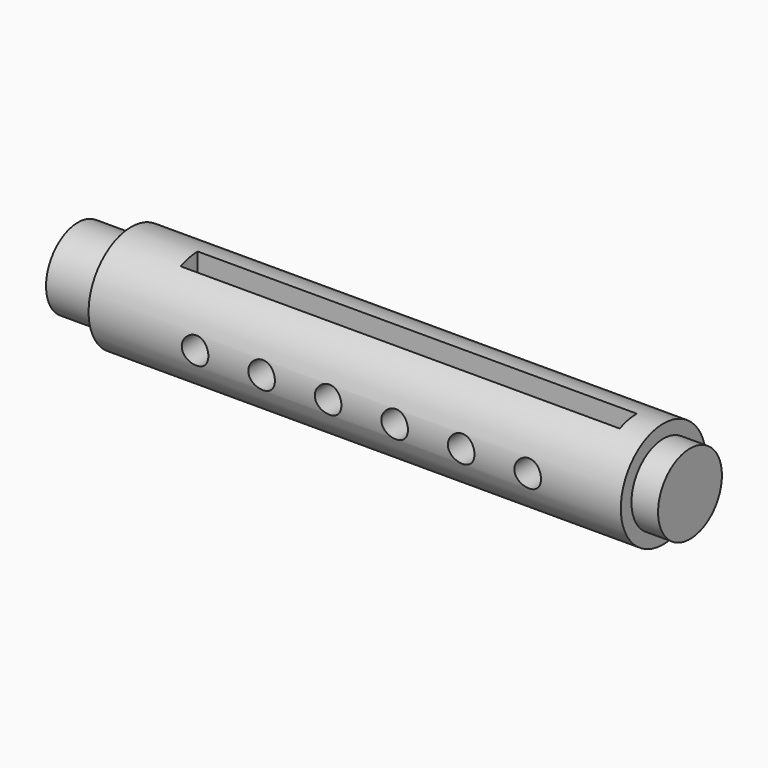
from build123d import *

# Parameters (mm, degrees)
F0_R     = 15
F1_DEPTH = 20
F2_R     = 20
F3_DEPTH = 200
F4_W     = 165
F4_H     = 8
F5_DEPTH = 25
F7_D     = 10
F7_DEPTH = 20.001
F8_R     = 15
F9_DEPTH = 10


with BuildPart() as f1:
    # F0 (on Right) → F1 (new body)
    with BuildSketch(Plane.YZ):
        Circle(F0_R)
    extrude(amount=F1_DEPTH)

    # F2 (on face) → F3 (join)
    with BuildSketch(Plane.YZ.offset(20)):
        Circle(F2_R)
    extrude(amount=F3_DEPTH)

    # F4 (on Top) → F5 (cut, symmetric)
    with BuildSketch(Plane.XY):
        with Locations((127.5, -4)):
            Rectangle(F4_W, F4_H)
    extrude(amount=F5_DEPTH, both=True, mode=Mode.SUBTRACT)

    # F7 (through all, one way)
    with BuildSketch(Plane(origin=(0, 0, 0), x_dir=(1, 0, 0), z_dir=(0, 1, 0))):
        with Locations((60, 0), (85, 0), (110, 0), (135, 0), (160, 0), (185, 0)):
            Circle(F7_D / 2)
    extrude(amount=-F7_DEPTH, mode=Mode.SUBTRACT)

    # F8 (on face) → F9 (join)
    with BuildSketch(Plane.YZ.offset(220)):
        Circle(F8_R)
    extrude(amount=F9_DEPTH)


solid = f1.part
